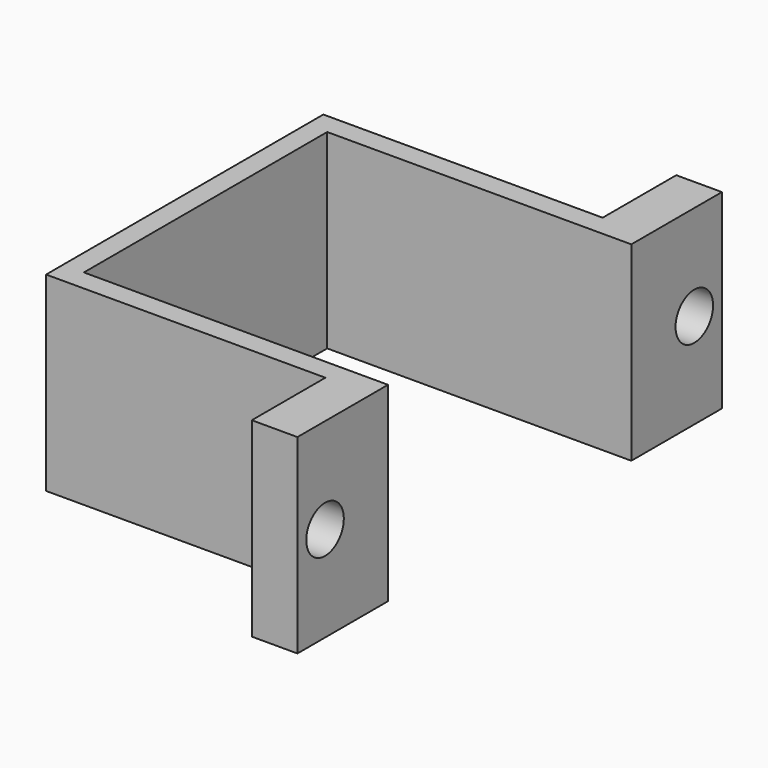
from build123d import *

# Parameters (mm, degrees)
F0_W     = 6.35
F0_H     = 12.8
F1_DEPTH = 26.5
F3_D     = 6.528
F4_W     = 42.3
F4_H     = 42.3
F5_DEPTH = 26.5


with BuildPart() as f1:
    # F0 (on Top) → F1 (new body)
    with BuildSketch(Plane.XY):
        Polygon((5.245822, 36.050879), (-33.604178, 36.050879), (-33.604178, -12.149121), (5.245822, -12.149121), (11.595822, -12.149121), (11.595822, 36.050879), align=None)
        with Locations((8.420822, 42.450879)):
            Rectangle(F0_W, F0_H)
        with Locations((8.420822, -18.549121)):
            Rectangle(F0_W, F0_H)
    extrude(amount=F1_DEPTH)

    # F3 (through all)
    with Locations(Plane(origin=(5.245822, 0, 0), x_dir=(0, -1, 0), z_dir=(-1, 0, 0))):
        with Locations((-44.050879, 13.25), (20.149121, 13.25)):
            Hole(F3_D / 2)

    # F4 (on face) → F5 (cut, through all)
    with BuildSketch(Plane.XY.offset(26.5)):
        with Locations((-9.554178, 11.950879)):
            Rectangle(F4_W, F4_H)
    extrude(amount=-F5_DEPTH, mode=Mode.SUBTRACT)


solid = f1.part
